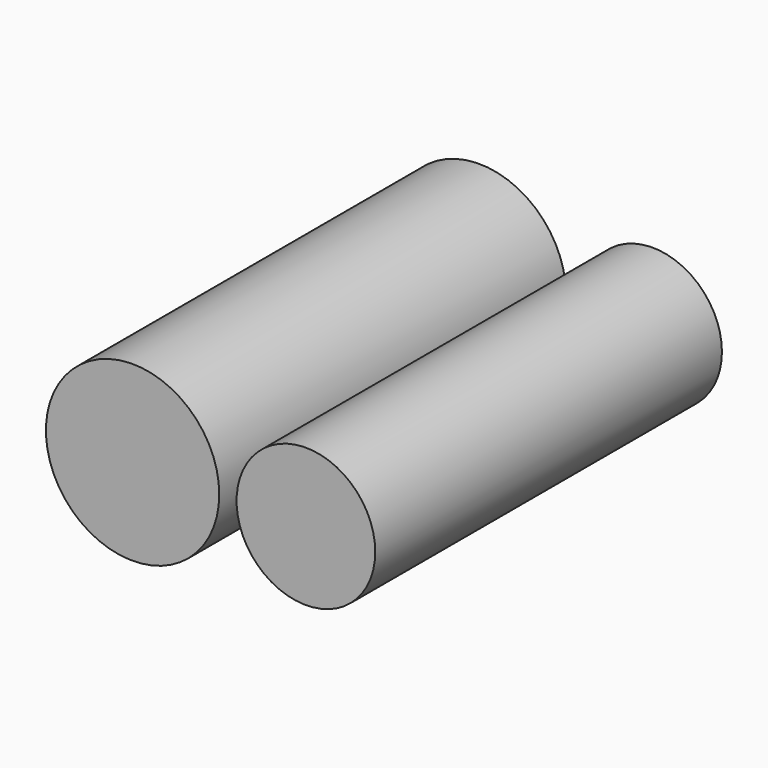
from build123d import *

# Parameters (mm, degrees)
F0_R     = 100
F1_R     = 80
F2_DEPTH = 500


with BuildPart() as f2:
    # F0 (on Front) + F1 (on Front) → F2 (new body)
    with BuildSketch(Plane.XZ):
        Circle(F0_R)
    with BuildSketch(Plane.XZ):
        with Locations((200, 0)):
            Circle(F1_R)
    extrude(amount=F2_DEPTH)


solid = f2.part
